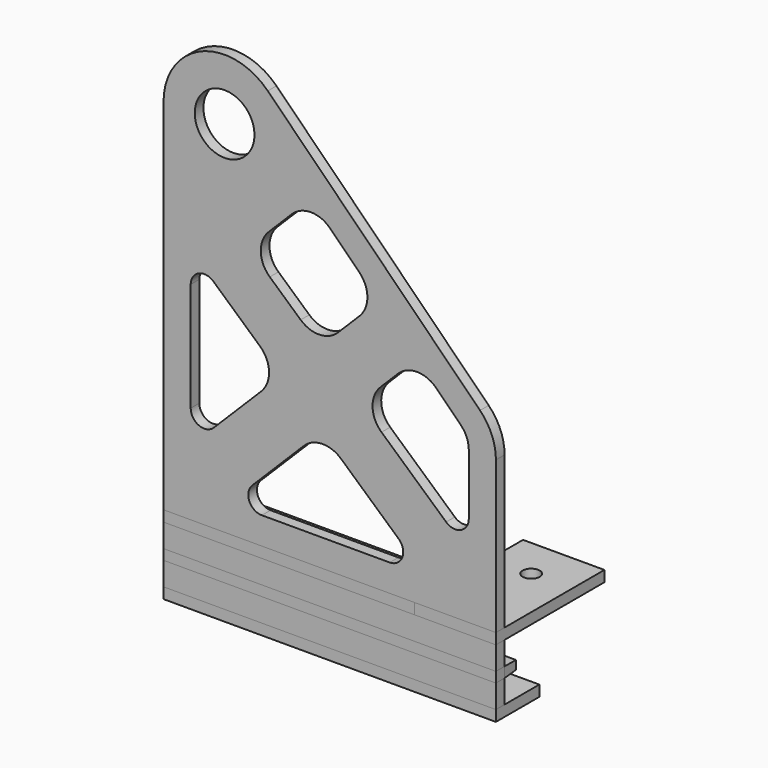
from build123d import *

# Parameters (mm, degrees)
F1_DEPTH  = 4
F0_W      = 122.5
F0_H      = 8.6
F0_W_2    = 92.5
F0_H_2    = 4
F2_DEPTH  = 20
F0_W_3    = 30
F3_DEPTH  = 50
F0_H_3    = 3.8
F4_DEPTH  = 4
F5_R      = 3.15
F6_DEPTH  = 40
F4_FACE_W = 122.5
F4_FACE_H = 3.8
F7_DEPTH  = 5.6
F7_TAPER  = 3


with BuildPart() as f1:
    # F0 (on Front) → F1 (new body)
    with BuildSketch(Plane.XZ):
        with BuildLine():
            Line((0, 110), (0, 0))
            Line((0, 0), (92.5, 0))
            Line((92.5, 0), (122.5, 0))
            Line((122.5, 0), (122.5, 56.0355339059))
            ThreePointArc((122.5, 56.0355339059), (120.9775906502, 63.6892025532), (116.6421356237, 70.1776695297))
            Line((116.6421356237, 70.1776695297), (93.4099025767, 93.4099025767))
            Line((93.4099025767, 93.4099025767), (54.3198051534, 132.5))
            Line((54.3198051534, 132.5), (38.4099025767, 148.4099025767))
            ThreePointArc((38.4099025767, 148.4099025767), (13.8896227718, 153.2872894815), (0, 132.5))
            Line((0, 132.5), (0, 110))
        make_face()
        with BuildLine():
            ThreePointArc((35.5732162015, 64.6167222252), (38.8883564947, 57.4447614751), (35.9630302772, 50.105167298))
            Line((35.9630302772, 50.105167298), (18.5355348938, 32.6776719147))
            ThreePointArc((18.5355348938, 32.6776719147), (13.0865838261, 31.593808158), (10.0000009879, 36.2132058206))
            Line((10.0000009879, 36.2132058206), (10.0000009879, 76.3706396309))
            ThreePointArc((10.0000009879, 76.3706396309), (12.9632307923, 80.9369912566), (18.340627856, 80.0908831885))
            Line((18.340627856, 80.0908831885), (35.5732162015, 64.6167222252))
        make_face(mode=Mode.SUBTRACT)
        with BuildLine():
            ThreePointArc((51.6258270811, 37.4836914573), (58.4283685277, 40.4090176749), (65.3781486291, 37.8531107608))
            Line((65.3781486291, 37.8531107608), (86.6852052871, 18.7202435576))
            ThreePointArc((86.6852052871, 18.7202435576), (88.013690636, 13.2113158172), (83.3445784191, 10))
            Line((83.3445784191, 10), (36.2132034356, 10))
            ThreePointArc((36.2132034356, 10), (31.593805773, 13.0865828382), (32.6776695297, 18.5355339059))
            Line((32.6776695297, 18.5355339059), (51.6258270811, 37.4836914573))
        make_face(mode=Mode.SUBTRACT)
        with BuildLine():
            Line((112.5000011414, 56.0355339059), (112.5000011414, 33.6293555954))
            ThreePointArc((112.5000011414, 33.6293555954), (109.536771337, 29.0630039696), (104.1593742733, 29.9091120378))
            Line((104.1593742733, 29.9091120378), (80.3407591987, 51.2972561863))
            ThreePointArc((80.3407591987, 51.2972561863), (77.0256189055, 58.4692169364), (79.9509451231, 65.8088111135))
            Line((79.9509451231, 65.8088111135), (86.3388347648, 72.1967007552))
            ThreePointArc((86.3388347648, 72.1967007552), (93.4099025767, 75.1256329434), (100.4809703886, 72.1967007552))
            Line((100.4809703886, 72.1967007552), (109.5710686189, 63.1066025249))
            ThreePointArc((109.5710686189, 63.1066025249), (111.7387963796, 59.8623686664), (112.5000011414, 56.0355339059))
        make_face(mode=Mode.SUBTRACT)
        with BuildLine():
            Line((72.1966986753, 86.3388347648), (64.2881514014, 78.4302874909))
            ThreePointArc((64.2881514014, 78.4302874909), (57.4856099548, 75.5049612734), (50.5358298533, 78.0608681875))
            Line((50.5358298533, 78.0608681875), (39.1490457718, 88.285735526))
            ThreePointArc((39.1490457718, 88.285735526), (35.8339054785, 95.457696276), (38.7592316961, 102.7972904532))
            Line((38.7592316961, 102.7972904532), (47.2487373415, 111.2867960986))
            ThreePointArc((47.2487373415, 111.2867960986), (54.3198051534, 114.2157282867), (61.3908729653, 111.2867960986))
            Line((61.3908729653, 111.2867960986), (72.1966986753, 100.4809703886))
            ThreePointArc((72.1966986753, 100.4809703886), (75.1256308634, 93.4099025767), (72.1966986753, 86.3388347648))
        make_face(mode=Mode.SUBTRACT)
        with BuildLine():
            ThreePointArc((33.5, 132.5), (22.5, 121.5), (11.5, 132.5))
            ThreePointArc((11.5, 132.5), (22.5, 143.5), (33.5, 132.5))
        make_face(mode=Mode.SUBTRACT)
    extrude(amount=F1_DEPTH)


with BuildPart() as f1b:
    # F0 (on Front) → F1, piece 2 (new body)
    with BuildSketch(Plane.XZ):
        Polygon((92.5, -4), (0, -4), (0, -12.6), (122.5, -12.6), (122.5, -4), align=None)
    extrude(amount=F1_DEPTH)


with BuildPart() as f1c:
    # F0 (on Front) → F1, piece 3 (new body)
    with BuildSketch(Plane.XZ):
        with Locations((61.25, -20.7)):
            Rectangle(F0_W, F0_H)
    extrude(amount=F1_DEPTH)


with BuildPart() as f2:
    # F0 (on Front) → F2 (new body)
    with BuildSketch(Plane.XZ):
        with Locations((46.25, -2)):
            Rectangle(F0_W_2, F0_H_2)
    extrude(amount=F2_DEPTH)


with BuildPart() as f2b:
    # F0 (on Front) → F2, piece 2 (new body)
    with BuildSketch(Plane.XZ):
        with Locations((61.25, -27)):
            Rectangle(F0_W, F0_H_2)
    extrude(amount=F2_DEPTH)


with BuildPart() as f3:
    # F0 (on Front) → F3 (new body)
    with BuildSketch(Plane.XZ):
        with Locations((107.5, -2)):
            Rectangle(F0_W_3, F0_H_2)
    extrude(amount=F3_DEPTH)

    # F5 (on face) → F6 (cut)
    with BuildSketch(Plane.XY):
        with Locations((107.5, -35)):
            Circle(F5_R)
    extrude(amount=-F6_DEPTH, mode=Mode.SUBTRACT)


with BuildPart() as f4:
    # F0 (on Front) → F4 (new body)
    with BuildSketch(Plane.XZ):
        with Locations((61.25, -14.5)):
            Rectangle(F0_W, F0_H_3)
    extrude(amount=F4_DEPTH)

    # F4_face (on face) → F7 (join)
    with BuildSketch(Plane(origin=(61.25, -4, -14.5), x_dir=(1, 0, 0), z_dir=(0, -1, 0))):
        Rectangle(F4_FACE_W, F4_FACE_H)
    extrude(amount=F7_DEPTH, taper=F7_TAPER)


with BuildPart() as f8_1:
    # F8: instance of F4
    add(f4.part.mirror(Plane.XZ))


with BuildPart() as f8_2:
    # F8: instance of F1
    add(f1.part.mirror(Plane.XZ))


with BuildPart() as f8_3:
    # F8: instance of F1c
    add(f1c.part.mirror(Plane.XZ))


with BuildPart() as f8_4:
    # F8: instance of F2
    add(f2.part.mirror(Plane.XZ))


with BuildPart() as f8_5:
    # F8: instance of F3
    add(f3.part.mirror(Plane.XZ))


with BuildPart() as f8_6:
    # F8: instance of F1b
    add(f1b.part.mirror(Plane.XZ))


with BuildPart() as f8_7:
    # F8: instance of F2b
    add(f2b.part.mirror(Plane.XZ))


solid = Compound([f8_1.part, f8_2.part, f8_3.part, f8_4.part, f8_5.part, f8_6.part, f8_7.part])
